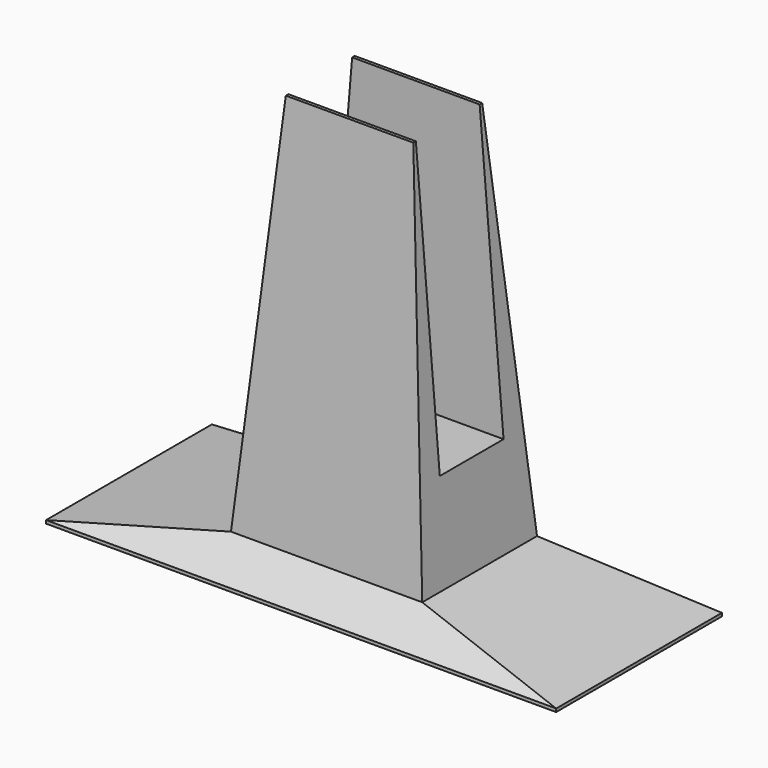
from build123d import *

# Parameters (mm, degrees)
F0_W      = 203.2
F0_H      = 82.55
F1_DEPTH  = 12.7
F3_DEPTH  = 203.2
F5_DEPTH  = 82.55
F6_W      = 76.2
F6_H      = 57.15
F7_DEPTH  = 152.4
F8_W      = 31.75
F8_H      = 114.3
F9_DEPTH  = 76.2
F12_DEPTH = 76.2
F13_DEPTH = 57.15


with BuildPart() as f1:
    # F0 (on Top) → F1 (new body)
    with BuildSketch(Plane.XY):
        with Locations((101.6, 41.275)):
            Rectangle(F0_W, F0_H)
    extrude(amount=F1_DEPTH)

    # F2 (on face) → F3 (cut)
    with BuildSketch(Plane.YZ.offset(203.2)):
        Polygon((12.7, 12.7), (0, 12.7), (0, 1.27), align=None)
        Polygon((82.55, 1.27), (82.55, 12.7), (69.85, 12.7), align=None)
    extrude(amount=-F3_DEPTH, mode=Mode.SUBTRACT)

    # F4 (on face) → F5 (cut)
    with BuildSketch(Plane(origin=(0, 82.55, 0), x_dir=(-1, 0, 0), z_dir=(0, 1, 0))):
        Polygon((-203.2, 12.7), (-203.2, 1.27), (-139.7, 12.7), align=None)
        Polygon((-63.5, 12.7), (0, 1.27), (0, 12.7), align=None)
    extrude(amount=-F5_DEPTH, mode=Mode.SUBTRACT)


with BuildPart() as f7:
    # F6 (on face) → F7 (new body)
    with BuildSketch(Plane.XY.offset(12.7)):
        with Locations((101.6, 41.275)):
            Rectangle(F6_W, F6_H)
    extrude(amount=F7_DEPTH)

    # F8 (on face) → F9 (cut)
    with BuildSketch(Plane.YZ.offset(139.7)):
        with Locations((41.275, 107.95)):
            Rectangle(F8_W, F8_H)
    extrude(amount=-F9_DEPTH, mode=Mode.SUBTRACT)

    # F10 (on face) → F12 (cut)
    with BuildSketch(Plane.YZ.offset(139.7)):
        Polygon((12.7, 165.1), (12.7, 12.7), (24.13, 165.1), align=None)
        Polygon((58.42, 165.1), (69.85, 12.7), (69.85, 165.1), align=None)
    extrude(amount=-F12_DEPTH, mode=Mode.SUBTRACT)

    # F11 (on face) → F13 (cut)
    with BuildSketch(Plane.XZ.offset(-12.7)):
        Polygon((76.2, 165.1), (63.5, 165.1), (63.5, 12.7), align=None)
        Polygon((139.7, 12.7), (139.7, 165.1), (127, 165.1), align=None)
    extrude(amount=-F13_DEPTH, mode=Mode.SUBTRACT)


solid = Compound([f1.part, f7.part])
